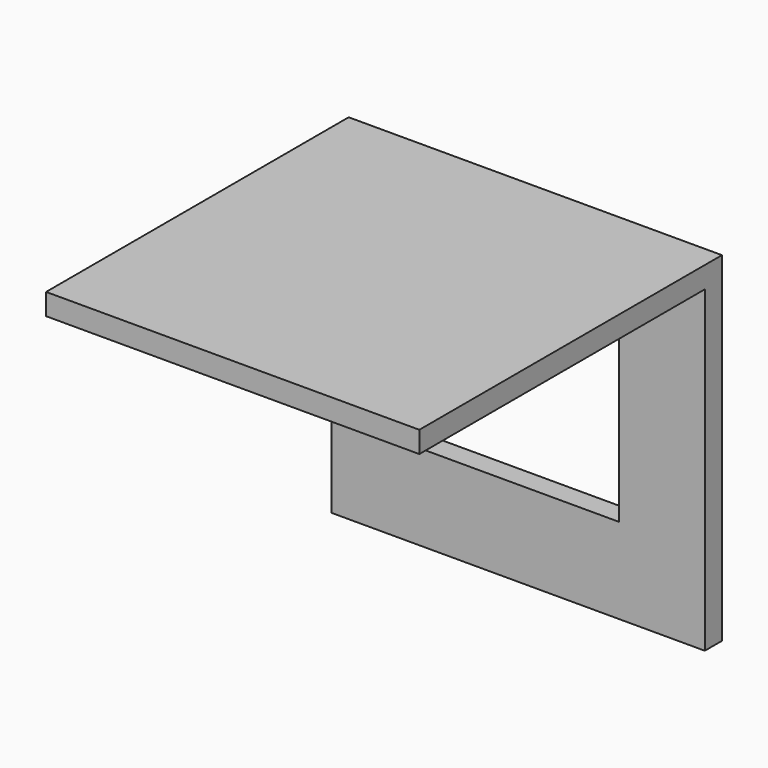
from build123d import *

# Parameters (mm, degrees)
F0_W     = 55.39994
F0_H     = 50.40122
F0_W_2   = 29.99994
F0_H_2   = 25.00122
F1_DEPTH = 1.5875
F2_W     = 55.39994
F2_H     = 3.175
F3_DEPTH = 52.96154


with BuildPart() as f1:
    # F0 (on Front) → F1 (new body, symmetric)
    with BuildSketch(Plane.XZ):
        Rectangle(F0_W, F0_H)
        Rectangle(F0_W_2, F0_H_2, mode=Mode.SUBTRACT)
    extrude(amount=F1_DEPTH, both=True)

    # F2 (on face) → F3 (join)
    with BuildSketch(Plane.XZ.offset(1.5875)):
        with Locations((0, 23.61311)):
            Rectangle(F2_W, F2_H)
    extrude(amount=F3_DEPTH)


solid = f1.part
